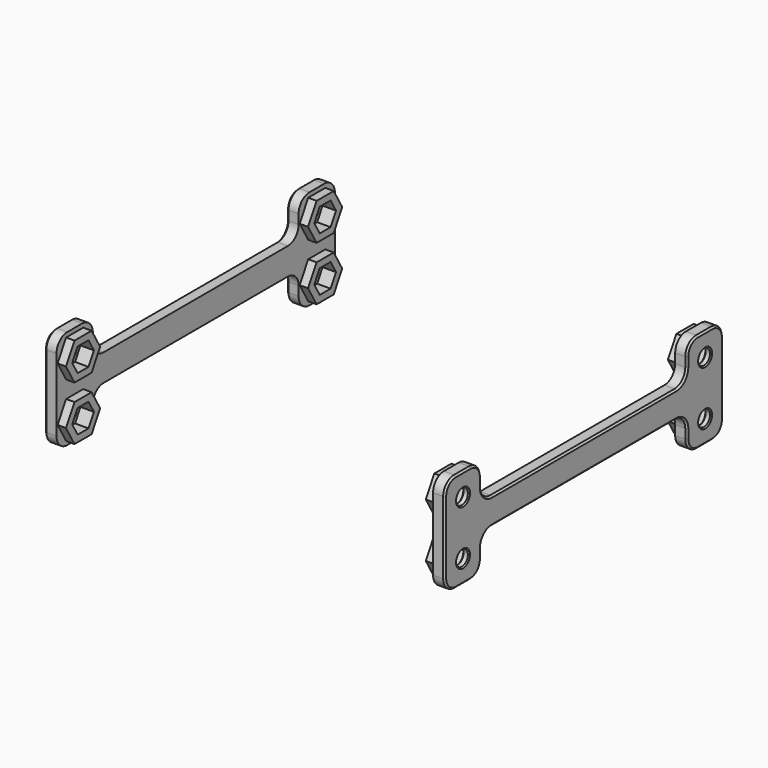
from build123d import *

# Parameters (mm, degrees)
SKETCH027_R     = 2.25
PAD010_DEPTH    = 3.5
SKETCH028_R     = 2.25
PAD011_DEPTH    = 2.5
POCKET015_DEPTH = 4
FILLET002_R     = 4
CHAMFER013_SIZE = 0.35
CHAMFER014_SIZE = 0.5
ARRAY002_COUNT  = 2


with BuildPart() as part:
    # Sketch027 → Pad010 (new body)
    with BuildSketch(Plane.YZ):
        Polygon((-38.25, 82.9), (-38.25, 72.1), (38.25, 72.1), (38.25, 82.9), (51.75, 82.9), (51.75, 53.3), (38.25, 53.3), (38.25, 64.1), (-38.25, 64.1), (-38.25, 53.3), (-51.75, 53.3), (-51.75, 82.9), align=None)
        with Locations((45, 60.05)):
            Circle(SKETCH027_R, mode=Mode.SUBTRACT)
        with Locations((45, 76.15)):
            Circle(SKETCH027_R, mode=Mode.SUBTRACT)
        with Locations((-45, 76.15)):
            Circle(SKETCH027_R, mode=Mode.SUBTRACT)
        with Locations((-45, 60.05)):
            Circle(SKETCH027_R, mode=Mode.SUBTRACT)
    extrude(amount=PAD010_DEPTH)

    # Sketch028 (on Face17 of Pad010) → Pad011 (join)
    with BuildSketch(Plane(origin=(0, 0, 0), x_dir=(0, 1, 0), z_dir=(-1, 0, 0))):
        Polygon((48.175426, -65.55), (51.350853, -60.05), (48.175426, -54.55), (41.824574, -54.55), (38.649147, -60.05), (41.824574, -65.55), align=None)
        with Locations((45, -60.05)):
            Circle(SKETCH028_R, mode=Mode.SUBTRACT)
        Polygon((48.175426, -81.65), (51.350853, -76.15), (48.175426, -70.65), (41.824574, -70.65), (38.649147, -76.15), (41.824574, -81.65), align=None)
        with Locations((45, -76.15)):
            Circle(SKETCH028_R, mode=Mode.SUBTRACT)
    pad011 = extrude(amount=PAD011_DEPTH)

    # Mirrored007: Pad011 across Sketch028 V_Axis
    add(pad011.mirror(Plane(origin=(0, 0, 0), x_dir=(-1, 0, 0), z_dir=(0, 1, 0))))

    # Sketch029 (on Face45 of Mirrored007) → Pocket015 (cut)
    with BuildSketch(Plane(origin=(-2.5, 0, 0), x_dir=(0, 1, 0), z_dir=(-1, 0, 0))):
        Polygon((-42.979274, -63.55), (-40.958548, -60.05), (-42.979274, -56.55), (-47.020726, -56.55), (-49.041452, -60.05), (-47.020726, -63.55), align=None)
        Polygon((-42.979274, -79.65), (-40.958548, -76.15), (-42.979274, -72.65), (-47.020726, -72.65), (-49.041452, -76.15), (-47.020726, -79.65), align=None)
    pocket015 = extrude(amount=-POCKET015_DEPTH, mode=Mode.SUBTRACT)

    # Mirrored008: Pocket015 across XZ
    add(pocket015.mirror(Plane.XZ), mode=Mode.SUBTRACT)

    # Fillet002
    fillet002_edges = [part.edges().sort_by_distance(p)[0] for p in [
        (1.75, 38.25, 72.1),
        (1.75, 38.25, 82.9),
        (1.75, -38.25, 82.9),
        (1.75, -38.25, 72.1),
        (1.75, -51.75, 82.9),
        (1.75, 51.75, 82.9),
        (1.75, 38.25, 64.1),
        (1.75, 38.25, 53.3),
        (1.75, 51.75, 53.3),
        (1.75, -38.25, 53.3),
        (1.75, -51.75, 53.3),
        (1.75, -38.25, 64.1),
    ]]
    fillet(fillet002_edges, radius=FILLET002_R)

    # Chamfer013
    chamfer013_edges = [part.edges().sort_by_distance(p)[0] for p in [
        (1.5, -47.25, 76.15),
        (2.5, -42.75, 76.15),
        (3.5, -47.25, 76.15),
        (1.5, -47.25, 60.05),
        (2.5, -42.75, 60.05),
        (3.5, -47.25, 60.05),
        (1.5, 42.75, 60.05),
        (2.5, 47.25, 60.05),
        (3.5, 42.75, 60.05),
        (1.5, 42.75, 76.15),
        (2.5, 47.25, 76.15),
        (3.5, 42.75, 76.15),
    ]]
    chamfer(chamfer013_edges, length=CHAMFER013_SIZE)

    # Chamfer014
    chamfer014_edges = [part.edges().sort_by_distance(p)[0] for p in [
        (3.5, 0, 72.1),
    ]]
    chamfer(chamfer014_edges, length=CHAMFER014_SIZE)


with BuildPart() as part_1:
    # Body006 placement: moved
    add(part.part.moved(Location((56, 0, 0))))

    # Array002: part ×2 about axis
    array002_axis = Axis((0, 0, 0), (0, 0, 1))


with BuildPart() as part_2:
    add(part_1.part)
    for i in range(1, ARRAY002_COUNT):
        add(part_1.part.rotate(array002_axis, i * 360 / ARRAY002_COUNT))


solid = part_2.part
